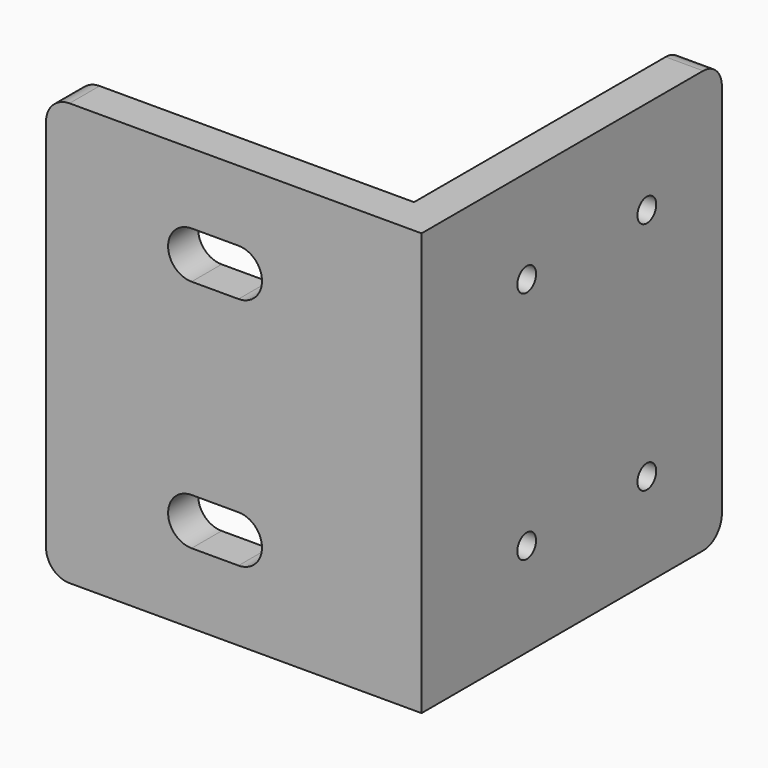
from build123d import *

# Parameters (mm, degrees)
PAD001_DEPTH            = 45
SKETCH_R                = 2.5
POCKET_DEPTH            = 8.001
POCKET001_DEPTH         = 8.001
FILLET001_R             = 5
BODY001_PLACEMENT_ANGLE = 90


with BuildPart() as part:
    # Sketch003 → Pad001 (new body, symmetric)
    with BuildSketch(Plane.XY):
        Polygon((0, 0), (0, 80), (8, 80), (8, 8), (80, 8), (80, 0), align=None)
    extrude(amount=PAD001_DEPTH, both=True)

    # Sketch (on Face4 of Pad001) → Pocket (cut, through all)
    with BuildSketch(Plane(origin=(0, 8, 0), x_dir=(-1, 0, 0), z_dir=(0, 1, 0))):
        with Locations((-60, 25)):
            Circle(SKETCH_R)
        with Locations((-28, -25)):
            Circle(SKETCH_R)
        with Locations((-28, 25)):
            Circle(SKETCH_R)
        with Locations((-60, -25)):
            Circle(SKETCH_R)
    extrude(amount=-POCKET_DEPTH, mode=Mode.SUBTRACT)

    # Sketch007 (on Face11 of Pocket) → Pocket001 (cut, through all)
    with BuildSketch(Plane.YZ.offset(8)):
        with BuildLine():
            ThreePointArc((39, 30), (34, 25), (39, 20))
            Line((39, 20), (49, 20))
            ThreePointArc((49, 20), (54, 25), (49, 30))
            Line((39, 30), (49, 30))
        make_face()
        with BuildLine():
            ThreePointArc((39, -20), (34, -25), (39, -30))
            Line((39, -30), (49, -30))
            ThreePointArc((49, -30), (54, -25), (49, -20))
            Line((39, -20), (49, -20))
        make_face()
    extrude(amount=-POCKET001_DEPTH, mode=Mode.SUBTRACT)

    # Fillet001
    fillet001_edges = [part.edges().sort_by_distance(p)[0] for p in [
        (4, 80, 45),
        (80, 4, 45),
        (4, 80, -45),
        (80, 4, -45),
    ]]
    fillet(fillet001_edges, radius=FILLET001_R)


with BuildPart() as part_1:
    # Body001 placement: moved
    add(part.part.moved(Location((1490, -354, 1485))).rotate(Axis((1490, -354, 1485), (0, 0, 1)), BODY001_PLACEMENT_ANGLE))


solid = part_1.part
